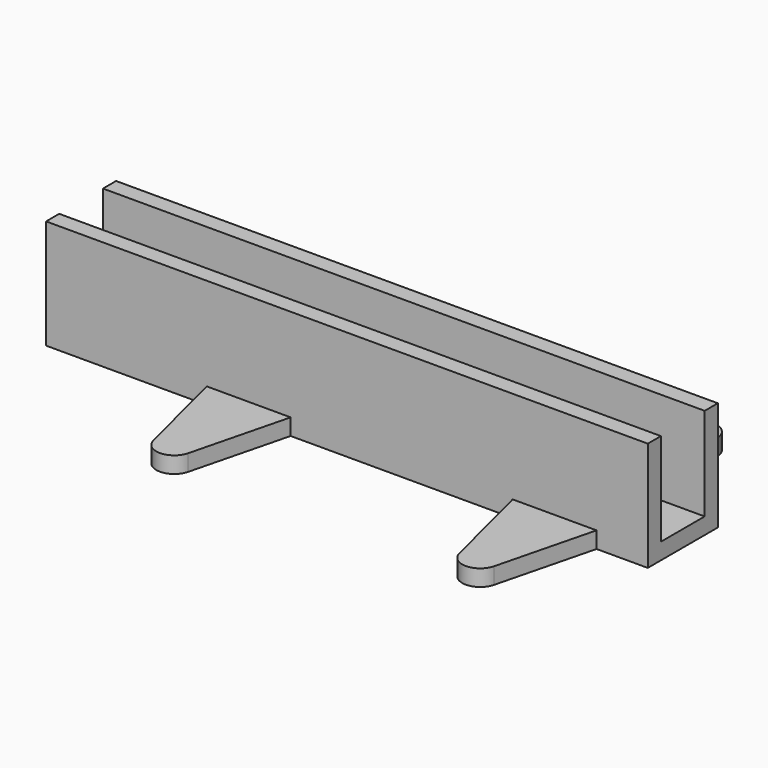
from build123d import *

# Parameters (mm, degrees)
F0_W     = 110
F0_H     = 10
F1_DEPTH = 3
F0_H_2   = 3
F3_DEPTH = 20
F2_W     = 20
F2_H     = 10
F4_DEPTH = 3
F6_DEPTH = 3


with BuildPart() as f1:
    # F0 (on Top) → F1 (new body)
    with BuildSketch(Plane.XY):
        Rectangle(F0_W, F0_H)
    extrude(amount=F1_DEPTH)

    # F0 (on Top) → F3 (join)
    with BuildSketch(Plane.XY):
        with Locations((0, -6.5)):
            Rectangle(F0_W, F0_H_2)
        with Locations((0, 6.5)):
            Rectangle(F0_W, F0_H_2)
    extrude(amount=F3_DEPTH)

    # F2 (on face) → F4 (cut, through all)
    with BuildSketch(Plane.XY.offset(3)):
        with Locations((-45, 0)):
            Rectangle(F2_W, F2_H)
    extrude(amount=-F4_DEPTH, mode=Mode.SUBTRACT)

    # F5 (on face) → F6 (join, through all)
    with BuildSketch(Plane.XY.offset(3)):
        with BuildLine():
            Line((-9.536225, -5), (-26.390179, -5))
            Line((-26.390179, -5), (-21.141226, -25.801912))
            ThreePointArc((-21.141226, -25.801912), (-17.963202, -28.277636), (-14.785178, -25.801912))
            Line((-14.785178, -25.801912), (-9.536225, -5))
        make_face()
        with BuildLine():
            Line((46.390179, -5), (29.536225, -5))
            Line((29.536225, -5), (34.785178, -25.801912))
            ThreePointArc((34.785178, -25.801912), (37.963202, -28.277636), (41.141226, -25.801912))
            Line((41.141226, -25.801912), (46.390179, -5))
        make_face()
        with BuildLine():
            Line((-21.141226, 25.801912), (-26.390179, 5))
            Line((-26.390179, 5), (-9.536225, 5))
            Line((-9.536225, 5), (-14.785178, 25.801912))
            ThreePointArc((-14.785178, 25.801912), (-17.963202, 28.277636), (-21.141226, 25.801912))
        make_face()
        with BuildLine():
            Line((34.785178, 25.801912), (29.536225, 5))
            Line((29.536225, 5), (46.390179, 5))
            Line((46.390179, 5), (41.141226, 25.801912))
            ThreePointArc((41.141226, 25.801912), (37.963202, 28.277636), (34.785178, 25.801912))
        make_face()
    extrude(amount=-F6_DEPTH)


solid = f1.part
